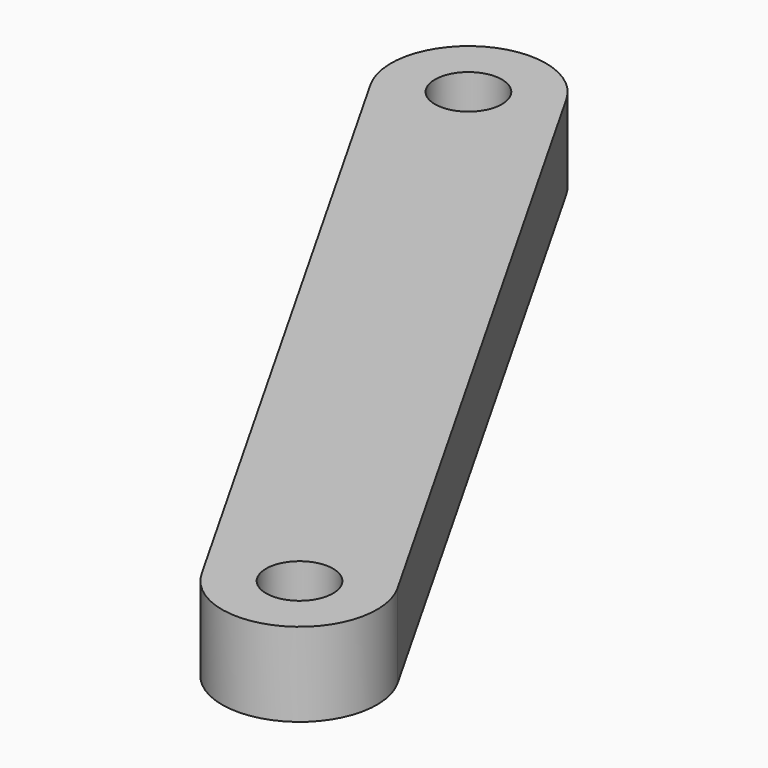
from build123d import *

# Parameters (mm, degrees)
CYLINDER005_R            = 1.6
CYLINDER005_DEPTH        = 30
PAD002_DEPTH             = 4
CLONE017_PLACEMENT_ANGLE = 60.399047773


with BuildPart() as finger_drill_master:
    # Cylinder005 → Cylinder005 (new body)
    with BuildSketch(Plane.XY.offset(-8)):
        Circle(CYLINDER005_R)
    extrude(amount=CYLINDER005_DEPTH)


with BuildPart() as clone006:
    # Clone006 base: copy of finger-drill-master
    add(finger_drill_master.part)


with BuildPart() as clone006_1:
    # Clone006 placement: moved
    add(clone006.part.moved(Location((40, 0, 0))))


with BuildPart() as fusion012:
    # Clone005 base: copy of finger-drill-master
    add(finger_drill_master.part)

    # Fusion012: union Clone006
    add(clone006_1.part)


with BuildPart() as right_link:
    # Sketch002 → Pad002 (new body)
    with BuildSketch(Plane.XY):
        with BuildLine():
            ThreePointArc((0, 3.7), (-3.7, 0), (0, -3.7))
            Line((0, -3.7), (40, -3.7))
            ThreePointArc((40, -3.7), (43.7, 0), (40, 3.7))
            Line((0, 3.7), (40, 3.7))
        make_face()
    extrude(amount=PAD002_DEPTH)

    # Cut001: cut Fusion012
    add(fusion012.part, mode=Mode.SUBTRACT)


with BuildPart() as right_link_1:
    # Clone017 placement: moved
    add(right_link.part.moved(Location((216.2035278557, 248.9337248036, 4.3))).rotate(Axis((216.2035278557, 248.9337248036, 4.3), (0, 0, -1)), CLONE017_PLACEMENT_ANGLE))


solid = right_link_1.part
